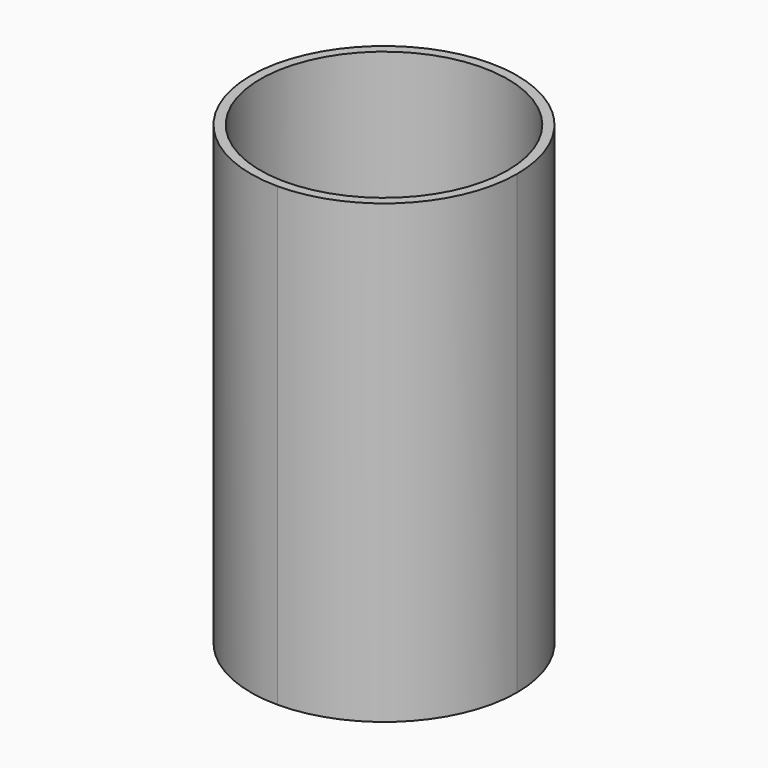
from build123d import *

# Parameters (mm, degrees)
F0_R     = 65
F1_DEPTH = 240
F0_R_2   = 1.25
F2_DEPTH = 2.5
F3_D     = 5


with BuildPart() as f1:
    # F0 (on Top) → F1 (new body)
    with BuildSketch(Plane.XY):
        with BuildLine():
            ThreePointArc((70, 0), (49.497475, 49.497475), (0, 70))
            ThreePointArc((0, 70), (-49.497475, 49.497475), (-70, 0))
            ThreePointArc((-70, 0), (-49.497475, -49.497475), (0, -70))
            ThreePointArc((0, -70), (49.497475, -49.497475), (70, 0))
        make_face()
        Circle(F0_R, mode=Mode.SUBTRACT)
    extrude(amount=F1_DEPTH)

    # F0 (on Top) → F2 (join)
    with BuildSketch(Plane.XY):
        Circle(F0_R)
        Circle(F0_R_2, mode=Mode.SUBTRACT)
    extrude(amount=F2_DEPTH)

    # F3 (through all)
    with Locations(Plane(origin=(0, 0, 0), x_dir=(1, 0, 0), z_dir=(0, 0, -1))):
        with Locations((0, 0)):
            Hole(F3_D / 2)


solid = f1.part
